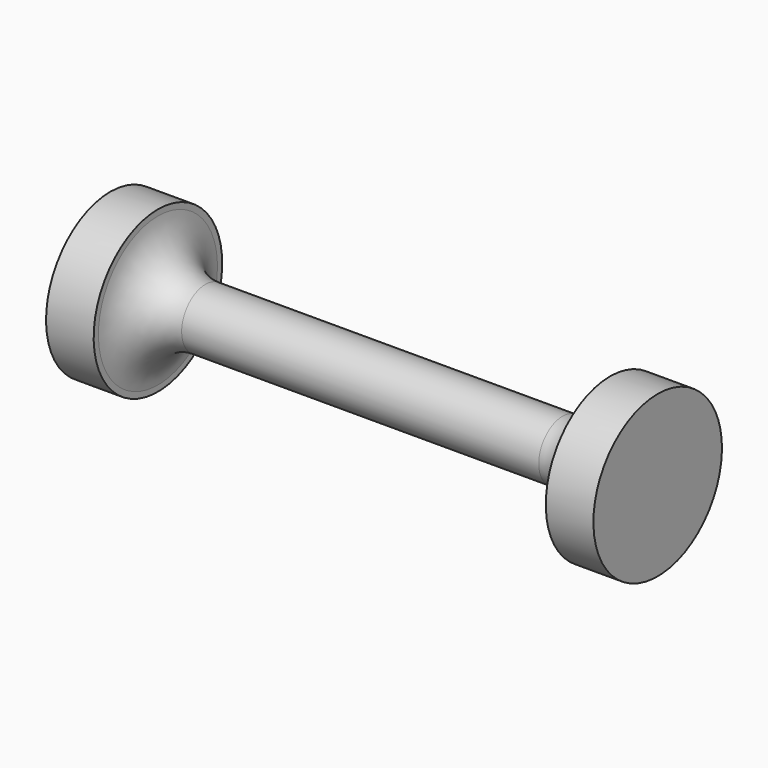
from build123d import *


with BuildPart() as f1:
    # F0 (on Front) → F1 (revolve)
    with BuildSketch(Plane.XZ):
        with BuildLine():
            Line((37.5, 6.25), (0, 6.25))
            Line((0, 6.25), (-37.5, 6.25))
            ThreePointArc((-37.5, 6.25), (-44.347091, 8.961835), (-47.480545, 15.62653))
            Line((-47.480545, 15.62653), (-47.480545, 0))
            Line((-47.480545, 0), (47.480545, 0))
            Line((47.480545, 0), (47.480545, 15.62653))
            ThreePointArc((47.480545, 15.62653), (44.347091, 8.961835), (37.5, 6.25))
        make_face()
        with BuildLine():
            Line((47.480545, 16.87347), (47.480545, 15.62653))
            ThreePointArc((47.480545, 15.62653), (47.5, 16.25), (47.480545, 16.87347))
        make_face()
        with BuildLine():
            ThreePointArc((47.480545, 16.87347), (47.5, 16.25), (47.480545, 15.62653))
            Line((47.480545, 15.62653), (47.480545, 0))
            Line((47.480545, 0), (57.480545, 0))
            Line((57.480545, 0), (57.480545, 16.87347))
            Line((57.480545, 16.87347), (47.480545, 16.87347))
        make_face()
        with BuildLine():
            Line((-47.480545, 0), (-47.480545, 15.62653))
            ThreePointArc((-47.480545, 15.62653), (-47.5, 16.25), (-47.480545, 16.87347))
            Line((-47.480545, 16.87347), (-57.480545, 16.87347))
            Line((-57.480545, 16.87347), (-57.480545, 0))
            Line((-57.480545, 0), (-47.480545, 0))
        make_face()
        with BuildLine():
            ThreePointArc((-47.480545, 16.87347), (-47.5, 16.25), (-47.480545, 15.62653))
            Line((-47.480545, 15.62653), (-47.480545, 16.87347))
        make_face()
    revolve(axis=Axis((0, 0, 0), (1, 0, 0)))


solid = f1.part
